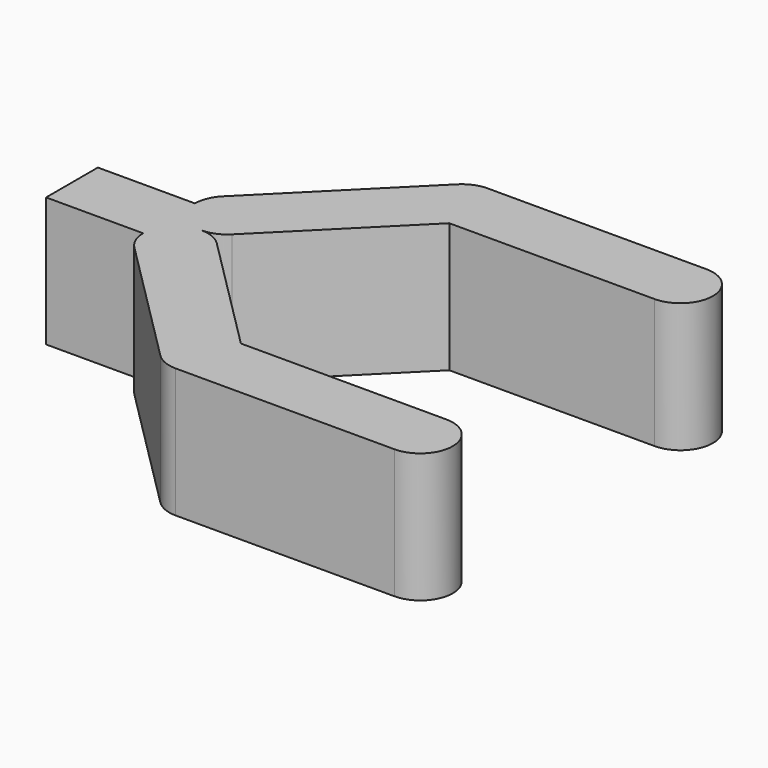
from build123d import *

# Parameters (mm, degrees)
F1_DEPTH = 25.4


with BuildPart() as f1:
    # F0 (on Top) → F1 (new body)
    with BuildSketch(Plane.XY):
        with BuildLine():
            Line((12.7, 0), (12.7, 6.35))
            Line((12.7, 6.35), (6.35, 6.35))
            ThreePointArc((6.35, 6.35), (8.2098719395, 1.8598719395), (12.7, 0))
        make_face()
        with BuildLine():
            Line((33.7662743449, 27.4162743449), (12.7, 6.35))
            Line((12.7, 6.35), (12.7, 0))
            ThreePointArc((12.7, 0), (15.1300397955, 0.4833649686), (17.1901280605, 1.8598719395))
            Line((17.1901280605, 1.8598719395), (40.8866585265, 25.5564024054))
            Line((40.8866585265, 25.5564024054), (38.2564024054, 25.5564024054))
            ThreePointArc((38.2564024054, 25.5564024054), (35.8263626099, 26.0397673739), (33.7662743449, 27.4162743449))
        make_face()
        with BuildLine():
            Line((6.35, 6.35), (12.7, 6.35))
            Line((12.7, 6.35), (33.7662743449, 27.4162743449))
            ThreePointArc((33.7662743449, 27.4162743449), (31.9064024054, 31.9064024054), (33.7662743449, 36.3965304659))
            Line((33.7662743449, 36.3965304659), (8.2098719395, 10.8401280605))
            ThreePointArc((8.2098719395, 10.8401280605), (6.8333649686, 8.7800397955), (6.35, 6.35))
        make_face()
        with BuildLine():
            ThreePointArc((12.7, 0), (8.2098719395, 1.8598719395), (6.35, 6.35))
            Line((6.35, 6.35), (-12.7, 6.35))
            Line((-12.7, 6.35), (-12.7, -6.35))
            Line((-12.7, -6.35), (6.35, -6.35))
            ThreePointArc((6.35, -6.35), (8.2098719395, -1.8598719395), (12.7, 0))
        make_face()
        with BuildLine():
            ThreePointArc((17.1901280605, -1.8598719395), (15.1300397955, -0.4833649686), (12.7, 0))
            Line((12.7, 0), (12.7, -6.35))
            Line((12.7, -6.35), (33.7662743449, -27.4162743449))
            ThreePointArc((33.7662743449, -27.4162743449), (35.8263626099, -26.0397673739), (38.2564024054, -25.5564024054))
            Line((38.2564024054, -25.5564024054), (40.8866585265, -25.5564024054))
            Line((40.8866585265, -25.5564024054), (17.1901280605, -1.8598719395))
        make_face()
        with BuildLine():
            Line((12.7, -6.35), (12.7, 0))
            ThreePointArc((12.7, 0), (8.2098719395, -1.8598719395), (6.35, -6.35))
            Line((6.35, -6.35), (12.7, -6.35))
        make_face()
        with BuildLine():
            ThreePointArc((33.7662743449, 36.3965304659), (31.9064024054, 31.9064024054), (33.7662743449, 27.4162743449))
            Line((33.7662743449, 27.4162743449), (38.2564024054, 31.9064024054))
            Line((38.2564024054, 31.9064024054), (44.6064024054, 31.9064024054))
            ThreePointArc((44.6064024054, 31.9064024054), (42.7465304659, 36.3965304659), (38.2564024054, 38.2564024054))
            ThreePointArc((38.2564024054, 38.2564024054), (35.8263626099, 37.7730374368), (33.7662743449, 36.3965304659))
        make_face()
        with BuildLine():
            Line((38.2564024054, 31.9064024054), (33.7662743449, 27.4162743449))
            ThreePointArc((33.7662743449, 27.4162743449), (35.8263626099, 26.0397673739), (38.2564024054, 25.5564024054))
            Line((38.2564024054, 25.5564024054), (40.8866585265, 25.5564024054))
            Line((40.8866585265, 25.5564024054), (42.7465304659, 27.4162743449))
            ThreePointArc((42.7465304659, 27.4162743449), (44.1230374368, 29.4763626099), (44.6064024054, 31.9064024054))
            Line((44.6064024054, 31.9064024054), (38.2564024054, 31.9064024054))
        make_face()
        with BuildLine():
            Line((33.7662743449, -27.4162743449), (12.7, -6.35))
            Line((12.7, -6.35), (6.35, -6.35))
            ThreePointArc((6.35, -6.35), (6.8333649686, -8.7800397955), (8.2098719395, -10.8401280605))
            Line((8.2098719395, -10.8401280605), (33.7662743449, -36.3965304659))
            ThreePointArc((33.7662743449, -36.3965304659), (31.9064024054, -31.9064024054), (33.7662743449, -27.4162743449))
        make_face()
        with BuildLine():
            ThreePointArc((38.2564024054, -25.5564024054), (35.8263626099, -26.0397673739), (33.7662743449, -27.4162743449))
            Line((33.7662743449, -27.4162743449), (38.2564024054, -31.9064024054))
            Line((38.2564024054, -31.9064024054), (44.6064024054, -31.9064024054))
            ThreePointArc((44.6064024054, -31.9064024054), (44.1230374368, -29.4763626099), (42.7465304659, -27.4162743449))
            Line((42.7465304659, -27.4162743449), (40.8866585265, -25.5564024054))
            Line((40.8866585265, -25.5564024054), (38.2564024054, -25.5564024054))
        make_face()
        with BuildLine():
            Line((38.2564024054, -31.9064024054), (33.7662743449, -27.4162743449))
            ThreePointArc((33.7662743449, -27.4162743449), (31.9064024054, -31.9064024054), (33.7662743449, -36.3965304659))
            ThreePointArc((33.7662743449, -36.3965304659), (35.8263626099, -37.7730374368), (38.2564024054, -38.2564024054))
            ThreePointArc((38.2564024054, -38.2564024054), (42.7465304659, -36.3965304659), (44.6064024054, -31.9064024054))
            Line((44.6064024054, -31.9064024054), (38.2564024054, -31.9064024054))
        make_face()
        with BuildLine():
            Line((42.7465304659, 27.4162743449), (40.8866585265, 25.5564024054))
            Line((40.8866585265, 25.5564024054), (81.1736459784, 25.5564024054))
            ThreePointArc((81.1736459784, 25.5564024054), (87.5236459784, 31.9064024054), (81.1736459784, 38.2564024054))
            Line((81.1736459784, 38.2564024054), (38.2564024054, 38.2564024054))
            ThreePointArc((38.2564024054, 38.2564024054), (42.7465304659, 36.3965304659), (44.6064024054, 31.9064024054))
            ThreePointArc((44.6064024054, 31.9064024054), (44.1230374368, 29.4763626099), (42.7465304659, 27.4162743449))
        make_face()
        with BuildLine():
            Line((81.1736459784, -25.5564024054), (40.8866585265, -25.5564024054))
            Line((40.8866585265, -25.5564024054), (42.7465304659, -27.4162743449))
            ThreePointArc((42.7465304659, -27.4162743449), (44.1230374368, -29.4763626099), (44.6064024054, -31.9064024054))
            ThreePointArc((44.6064024054, -31.9064024054), (42.7465304659, -36.3965304659), (38.2564024054, -38.2564024054))
            Line((38.2564024054, -38.2564024054), (81.1736459784, -38.2564024054))
            ThreePointArc((81.1736459784, -38.2564024054), (87.5236459784, -31.9064024054), (81.1736459784, -25.5564024054))
        make_face()
    extrude(amount=F1_DEPTH)


solid = f1.part
